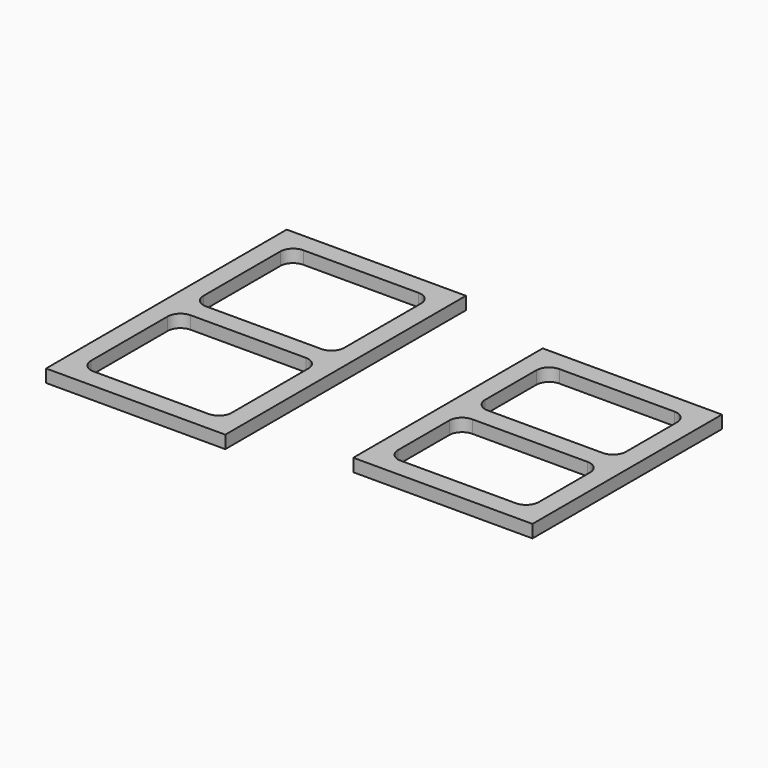
from build123d import *

# Parameters (mm, degrees)
F0_W     = 177.8
F0_H     = 298.45
F1_DEPTH = 12.7
F0_H_2   = 234.95
F2_DEPTH = 12.7


with BuildPart() as f1:
    # F0 (on Top) → F1 (new body)
    with BuildSketch(Plane.XY):
        Rectangle(F0_W, F0_H)
        Polygon((-69.85, -22.225), (-69.85, -9.525), (-57.15, -9.525), (57.15, -9.525), (69.85, -9.525), (69.85, -22.225), (69.85, -117.475), (69.85, -130.175), (57.15, -130.175), (-57.15, -130.175), (-69.85, -130.175), (-69.85, -117.475), align=None, mode=Mode.SUBTRACT)
        Polygon((-69.85, 117.475), (-69.85, 130.175), (-57.15, 130.175), (57.15, 130.175), (69.85, 130.175), (69.85, 117.475), (69.85, 22.225), (69.85, 9.525), (57.15, 9.525), (-57.15, 9.525), (-69.85, 9.525), (-69.85, 22.225), align=None, mode=Mode.SUBTRACT)
        with BuildLine():
            Line((-57.15, 130.175), (-69.85, 130.175))
            Line((-69.85, 130.175), (-69.85, 117.475))
            ThreePointArc((-69.85, 117.475), (-66.130256, 126.455256), (-57.15, 130.175))
        make_face()
        with BuildLine():
            Line((69.85, 130.175), (57.15, 130.175))
            ThreePointArc((57.15, 130.175), (66.130256, 126.455256), (69.85, 117.475))
            Line((69.85, 117.475), (69.85, 130.175))
        make_face()
        with BuildLine():
            Line((69.85, 9.525), (69.85, 22.225))
            ThreePointArc((69.85, 22.225), (66.130256, 13.244744), (57.15, 9.525))
            Line((57.15, 9.525), (69.85, 9.525))
        make_face()
        with BuildLine():
            ThreePointArc((-57.15, 9.525), (-66.130256, 13.244744), (-69.85, 22.225))
            Line((-69.85, 22.225), (-69.85, 9.525))
            Line((-69.85, 9.525), (-57.15, 9.525))
        make_face()
        with BuildLine():
            Line((-57.15, -9.525), (-69.85, -9.525))
            Line((-69.85, -9.525), (-69.85, -22.225))
            ThreePointArc((-69.85, -22.225), (-66.130256, -13.244744), (-57.15, -9.525))
        make_face()
        with BuildLine():
            Line((69.85, -9.525), (57.15, -9.525))
            ThreePointArc((57.15, -9.525), (66.130256, -13.244744), (69.85, -22.225))
            Line((69.85, -22.225), (69.85, -9.525))
        make_face()
        with BuildLine():
            Line((69.85, -130.175), (69.85, -117.475))
            ThreePointArc((69.85, -117.475), (66.130256, -126.455256), (57.15, -130.175))
            Line((57.15, -130.175), (69.85, -130.175))
        make_face()
        with BuildLine():
            ThreePointArc((-57.15, -130.175), (-66.130256, -126.455256), (-69.85, -117.475))
            Line((-69.85, -117.475), (-69.85, -130.175))
            Line((-69.85, -130.175), (-57.15, -130.175))
        make_face()
    extrude(amount=F1_DEPTH)


with BuildPart() as f2:
    # F0 (on Top) → F2 (new body)
    with BuildSketch(Plane.XY):
        with Locations((279.4, 0)):
            Rectangle(F0_W, F0_H_2)
        Polygon((222.25, -98.425), (209.55, -98.425), (209.55, -85.725), (209.55, -22.225), (209.55, -9.525), (222.25, -9.525), (336.55, -9.525), (349.25, -9.525), (349.25, -22.225), (349.25, -85.725), (349.25, -98.425), (336.55, -98.425), align=None, mode=Mode.SUBTRACT)
        Polygon((209.55, 85.725), (209.55, 98.425), (222.25, 98.425), (336.55, 98.425), (349.25, 98.425), (349.25, 85.725), (349.25, 22.225), (349.25, 9.525), (336.55, 9.525), (222.25, 9.525), (209.55, 9.525), (209.55, 22.225), align=None, mode=Mode.SUBTRACT)
        with BuildLine():
            Line((222.25, 98.425), (209.55, 98.425))
            Line((209.55, 98.425), (209.55, 85.725))
            ThreePointArc((209.55, 85.725), (213.269744, 94.705256), (222.25, 98.425))
        make_face()
        with BuildLine():
            Line((349.25, 98.425), (336.55, 98.425))
            ThreePointArc((336.55, 98.425), (345.530256, 94.705256), (349.25, 85.725))
            Line((349.25, 85.725), (349.25, 98.425))
        make_face()
        with BuildLine():
            Line((349.25, 9.525), (349.25, 22.225))
            ThreePointArc((349.25, 22.225), (345.530256, 13.244744), (336.55, 9.525))
            Line((336.55, 9.525), (349.25, 9.525))
        make_face()
        with BuildLine():
            ThreePointArc((222.25, 9.525), (213.269744, 13.244744), (209.55, 22.225))
            Line((209.55, 22.225), (209.55, 9.525))
            Line((209.55, 9.525), (222.25, 9.525))
        make_face()
        with BuildLine():
            Line((209.55, -9.525), (209.55, -22.225))
            ThreePointArc((209.55, -22.225), (213.269744, -13.244744), (222.25, -9.525))
            Line((222.25, -9.525), (209.55, -9.525))
        make_face()
        with BuildLine():
            ThreePointArc((336.55, -9.525), (345.530256, -13.244744), (349.25, -22.225))
            Line((349.25, -22.225), (349.25, -9.525))
            Line((349.25, -9.525), (336.55, -9.525))
        make_face()
        with BuildLine():
            ThreePointArc((349.25, -85.725), (345.530256, -94.705256), (336.55, -98.425))
            Line((336.55, -98.425), (349.25, -98.425))
            Line((349.25, -98.425), (349.25, -85.725))
        make_face()
        with BuildLine():
            Line((209.55, -85.725), (209.55, -98.425))
            Line((209.55, -98.425), (222.25, -98.425))
            ThreePointArc((222.25, -98.425), (213.269744, -94.705256), (209.55, -85.725))
        make_face()
    extrude(amount=F2_DEPTH)


solid = Compound([f1.part, f2.part])
